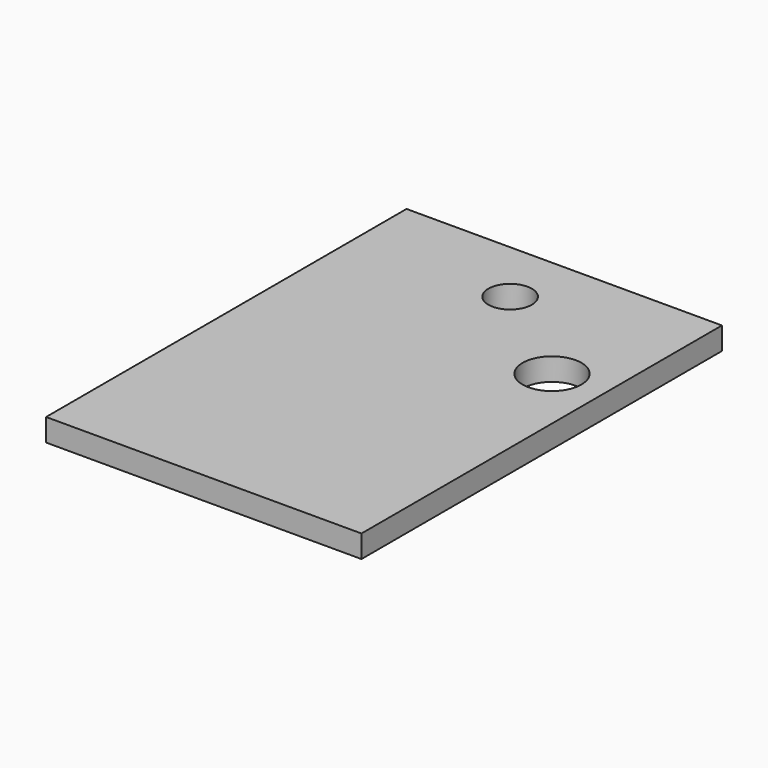
from build123d import *

# Parameters (mm, degrees)
F0_W     = 70
F0_H     = 100
F0_R     = 4.8291
F0_R_2   = 6.527917
F1_DEPTH = 5


with BuildPart() as f1:
    # F0 (on Top) → F1 (new body)
    with BuildSketch(Plane.XY):
        Rectangle(F0_W, F0_H)
        with Locations((-0.401031, 35.491593)):
            Circle(F0_R, mode=Mode.SUBTRACT)
        with Locations((23.323484, 17.457711)):
            Circle(F0_R_2, mode=Mode.SUBTRACT)
    extrude(amount=F1_DEPTH)


solid = f1.part
